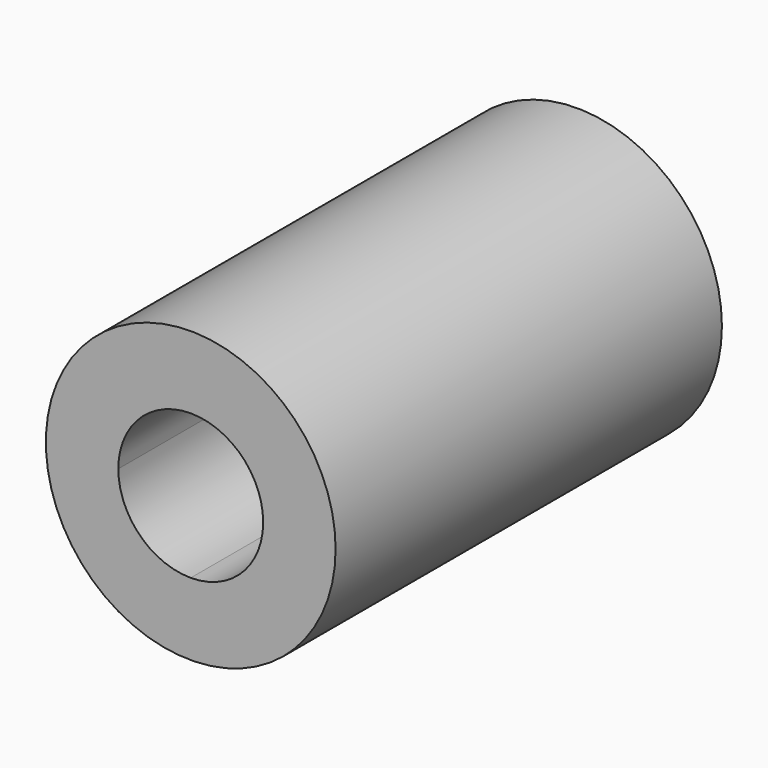
from build123d import *

# Parameters (mm, degrees)
F0_R     = 76.2
F2_DEPTH = 254
F3_DEPTH = 254.001
F4_DEPTH = 101.6


with BuildPart() as f2:
    # F0 (on Front) → F2 (new body)
    with BuildSketch(Plane.XZ):
        Circle(F0_R)
    extrude(amount=F2_DEPTH)

    # F1 (on Front) → F3 (cut, through all)
    with BuildSketch(Plane.XZ):
        with BuildLine():
            ThreePointArc((38.1, 0), (26.940768, 26.940768), (0, 38.1))
            ThreePointArc((0, 38.1), (-26.940768, 26.940768), (-38.1, 0))
            ThreePointArc((-38.1, 0), (-26.940768, -26.940768), (0, -38.1))
            ThreePointArc((0, -38.1), (26.940768, -26.940768), (38.1, 0))
        make_face()
    extrude(amount=F3_DEPTH, mode=Mode.SUBTRACT)

    # F1 (on Front) → F4 (cut)
    with BuildSketch(Plane.XZ):
        with BuildLine():
            Line((38.1, 0), (38.1, 38.1))
            Line((38.1, 38.1), (0, 38.1))
            ThreePointArc((0, 38.1), (26.940768, 26.940768), (38.1, 0))
        make_face()
        with BuildLine():
            ThreePointArc((-38.1, 0), (-26.940768, 26.940768), (0, 38.1))
            Line((0, 38.1), (-38.1, 38.1))
            Line((-38.1, 38.1), (-38.1, 0))
        make_face()
        with BuildLine():
            Line((38.1, -38.1), (38.1, 0))
            ThreePointArc((38.1, 0), (26.940768, -26.940768), (0, -38.1))
            Line((0, -38.1), (38.1, -38.1))
        make_face()
        with BuildLine():
            ThreePointArc((0, -38.1), (-26.940768, -26.940768), (-38.1, 0))
            Line((-38.1, 0), (-38.1, -38.1))
            Line((-38.1, -38.1), (0, -38.1))
        make_face()
    extrude(amount=F4_DEPTH, mode=Mode.SUBTRACT)


solid = f2.part
